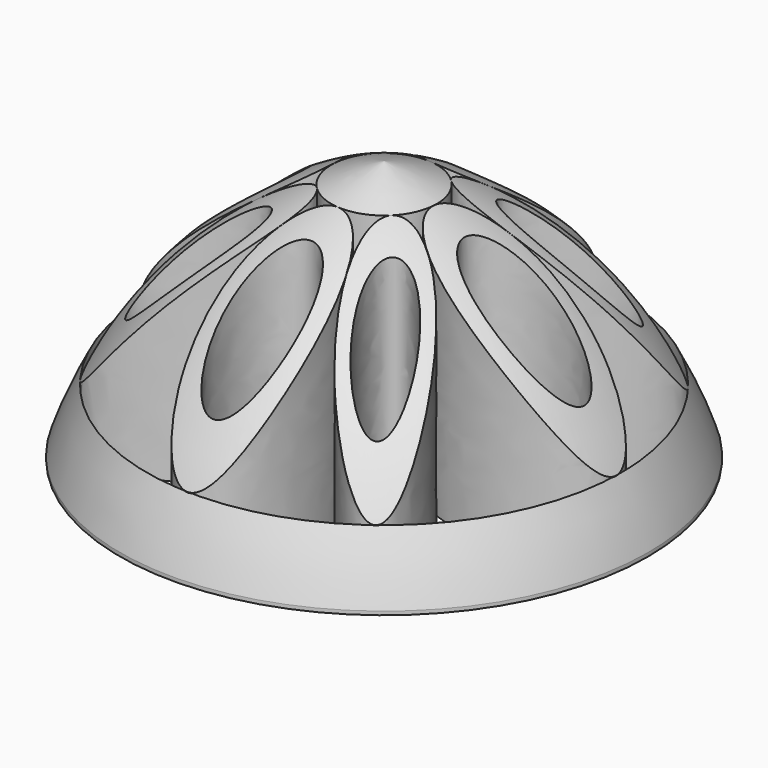
from build123d import *

# Parameters (mm, degrees)
F0_R     = 25
F0_R_2   = 22.5
F0_R_3   = 5
F1_DEPTH = 25
F3_DEPTH = 25
F4_COUNT = 4
F6_DEPTH = 25
F7_COUNT = 4


with BuildPart() as f1:
    # F0 (on Top) → F1 (new body)
    with BuildSketch(Plane.XY):
        Circle(F0_R)
        Circle(F0_R_2, mode=Mode.SUBTRACT)
        Circle(F0_R_3)
    extrude(amount=F1_DEPTH)


with BuildPart() as f3:
    # F2 (on Top) → F3 (new body)
    with BuildSketch(Plane.XY):
        with BuildLine():
            add(Edge.make_bspline(
                [(-4.98026, 0.556626), (-4.98026, 9.21688), (-18.114149, 4.886753), (-31.248039, 0.556626), (-18.114149, -3.773501), (-4.98026, -8.103628), (-4.98026, 0.556626)],
                knots=[0, 0, 0, 2.094395, 2.094395, 4.18879, 4.18879, 6.283185, 6.283185, 6.283185], degree=2, weights=[1, 0.5, 1, 0.5, 1, 0.5, 1]))
        make_face()
        with BuildLine():
            add(Edge.make_bspline(
                [(-8.017609, 0.556626), (-8.017609, 6.618803), (-16.595474, 3.587715), (-25.17334, 0.556626), (-16.595474, -2.474463), (-8.017609, -5.505552), (-8.017609, 0.556626)],
                knots=[0, 0, 0, 2.094395, 2.094395, 4.18879, 4.18879, 6.283185, 6.283185, 6.283185], degree=2, weights=[1, 0.5, 1, 0.5, 1, 0.5, 1]))
        make_face(mode=Mode.SUBTRACT)
    extrude(amount=F3_DEPTH)


with BuildPart() as f4_1:
    # F4: instance of F3
    add(f3.part.rotate(Axis((0, 0, 25), (0, 0, 1)), 1 * 360 / F4_COUNT))


with BuildPart() as f4_2:
    # F4: instance of F3
    add(f3.part.rotate(Axis((0, 0, 25), (0, 0, 1)), 2 * 360 / F4_COUNT))


with BuildPart() as f4_3:
    # F4: instance of F3
    add(f3.part.rotate(Axis((0, 0, 25), (0, 0, 1)), 3 * 360 / F4_COUNT))


with BuildPart() as f6:
    # F5 (on Top) → F6 (new body)
    with BuildSketch(Plane.XY):
        with BuildLine():
            add(Edge.make_bspline(
                [(-3.30788, -3.808465), (-6.833171, 1.540919), (-16.091198, -8.396492), (-25.349225, -18.333903), (-12.565907, -13.745876), (0.21741, -9.157849), (-3.30788, -3.808465)],
                knots=[0, 0, 0, 2.094395, 2.094395, 4.18879, 4.18879, 6.283185, 6.283185, 6.283185], degree=2, weights=[1, 0.5, 1, 0.5, 1, 0.5, 1]))
        make_face()
        with BuildLine():
            add(Edge.make_bspline(
                [(-5.964863, -5.836198), (-8.192695, -2.123145), (-14.113977, -8.200791), (-20.035259, -14.278437), (-11.886145, -11.913844), (-3.737031, -9.549251), (-5.964863, -5.836198)],
                knots=[0, 0, 0, 2.094395, 2.094395, 4.18879, 4.18879, 6.283185, 6.283185, 6.283185], degree=2, weights=[1, 0.5, 1, 0.5, 1, 0.5, 1]))
        make_face(mode=Mode.SUBTRACT)
    extrude(amount=F6_DEPTH)


with BuildPart() as f7_1:
    # F7: instance of F6
    add(f6.part.rotate(Axis((0, 0, 25), (0, 0, 1)), 1 * 360 / F7_COUNT))


with BuildPart() as f7_2:
    # F7: instance of F6
    add(f6.part.rotate(Axis((0, 0, 25), (0, 0, 1)), 2 * 360 / F7_COUNT))


with BuildPart() as f7_3:
    # F7: instance of F6
    add(f6.part.rotate(Axis((0, 0, 25), (0, 0, 1)), 3 * 360 / F7_COUNT))


with BuildPart() as f9_tool:
    # F8 (on Front) → F9 (revolve)
    with BuildSketch(Plane.XZ):
        with BuildLine():
            ThreePointArc((0, 24.864171), (15.602003, 15.507942), (25.113324, 0))
            Line((25.113324, 0), (29.395167, 0))
            Line((29.395167, 0), (29.395167, 33.931602))
            Line((29.395167, 33.931602), (0, 33.931602))
            Line((0, 33.931602), (0, 24.864171))
        make_face()
    revolve(axis=Axis((0, 0, 29.397886), (0, 0, 1)))


with BuildPart() as f1_1:
    add(f1.part)

    # F9: cut by f9_tool
    add(f9_tool.part, mode=Mode.SUBTRACT)


with BuildPart() as f3_1:
    add(f3.part)

    # F9: cut by f9_tool
    add(f9_tool.part, mode=Mode.SUBTRACT)


with BuildPart() as f4_1_1:
    add(f4_1.part)

    # F9: cut by f9_tool
    add(f9_tool.part, mode=Mode.SUBTRACT)


with BuildPart() as f4_2_1:
    add(f4_2.part)

    # F9: cut by f9_tool
    add(f9_tool.part, mode=Mode.SUBTRACT)


with BuildPart() as f4_3_1:
    add(f4_3.part)

    # F9: cut by f9_tool
    add(f9_tool.part, mode=Mode.SUBTRACT)


with BuildPart() as f6_1:
    add(f6.part)

    # F9: cut by f9_tool
    add(f9_tool.part, mode=Mode.SUBTRACT)


with BuildPart() as f7_1_1:
    add(f7_1.part)

    # F9: cut by f9_tool
    add(f9_tool.part, mode=Mode.SUBTRACT)


with BuildPart() as f7_2_1:
    add(f7_2.part)

    # F9: cut by f9_tool
    add(f9_tool.part, mode=Mode.SUBTRACT)


with BuildPart() as f7_3_1:
    add(f7_3.part)

    # F9: cut by f9_tool
    add(f9_tool.part, mode=Mode.SUBTRACT)


solid = Compound([f1_1.part, f3_1.part, f4_1_1.part, f4_2_1.part, f4_3_1.part, f6_1.part, f7_1_1.part, f7_2_1.part, f7_3_1.part])
